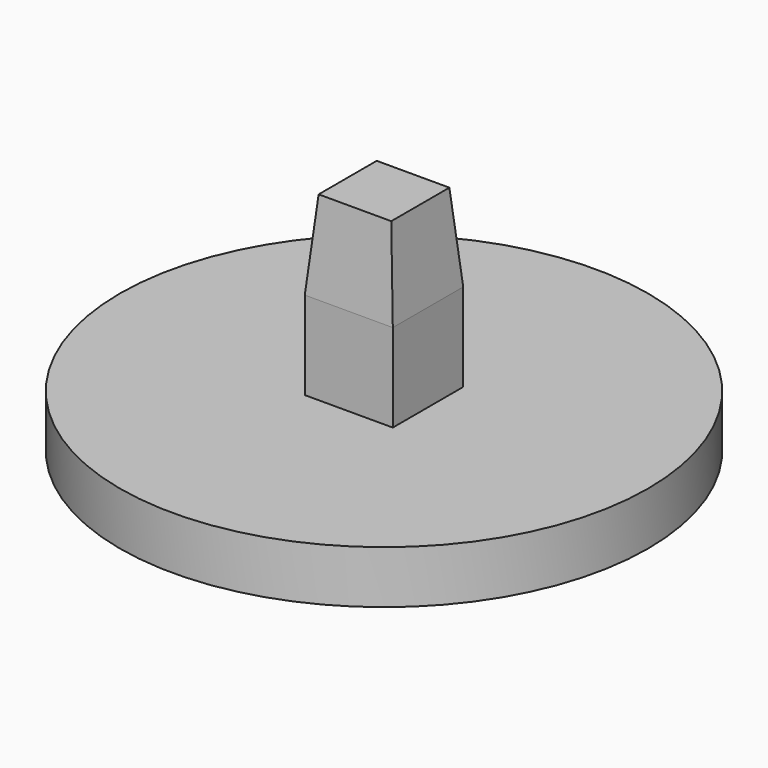
from build123d import *

# Parameters (mm, degrees)
F0_R      = 15
F0_W      = 5
F0_H      = 5
F1_DEPTH  = 3
F2_DEPTH  = 8
F2_FACE_W = 5
F2_FACE_H = 5
F3_DEPTH  = 5
F3_TAPER  = 5


with BuildPart() as f1:
    # F0 (on Top) → F1 (new body)
    with BuildSketch(Plane.XY):
        Circle(F0_R)
        Rectangle(F0_W, F0_H, mode=Mode.SUBTRACT)
    extrude(amount=F1_DEPTH)

    # F0 (on Top) → F2 (join)
    with BuildSketch(Plane.XY):
        Rectangle(F0_W, F0_H)
    extrude(amount=F2_DEPTH)

    # F2_face (on face) → F3 (join)
    with BuildSketch(Plane.XY.offset(8)):
        Rectangle(F2_FACE_W, F2_FACE_H)
    extrude(amount=F3_DEPTH, taper=F3_TAPER)


solid = f1.part
